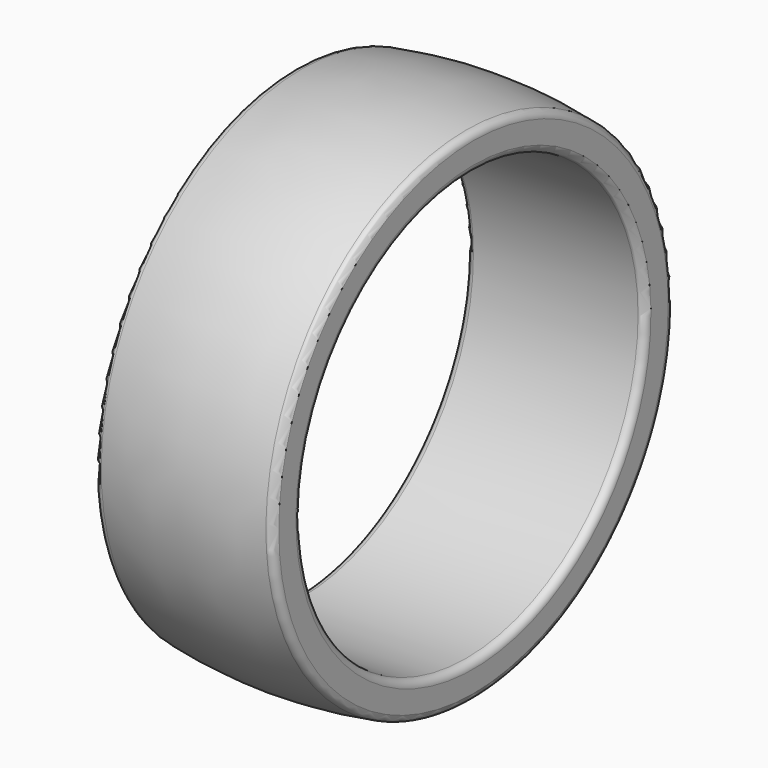
from build123d import *


with BuildPart() as f1:
    # F0 (on Front) → F1 (revolve)
    with BuildSketch(Plane.XZ):
        with BuildLine():
            ThreePointArc((-3.75, 9.3), (-3.662132, 9.087868), (-3.45, 9))
            Line((-3.45, 9), (3.45, 9))
            ThreePointArc((3.45, 9), (3.662132, 9.087868), (3.75, 9.3))
            Line((3.75, 9.3), (3.75, 10.2))
            ThreePointArc((3.75, 10.2), (3.662132, 10.412132), (3.45, 10.5))
            ThreePointArc((3.45, 10.5), (0, 10.79981), (-3.45, 10.5))
            ThreePointArc((-3.45, 10.5), (-3.662132, 10.412132), (-3.75, 10.2))
            Line((-3.75, 10.2), (-3.75, 9.3))
        make_face()
    revolve(axis=Axis((2.5, 0, 0), (1, 0, 0)))


solid = f1.part
